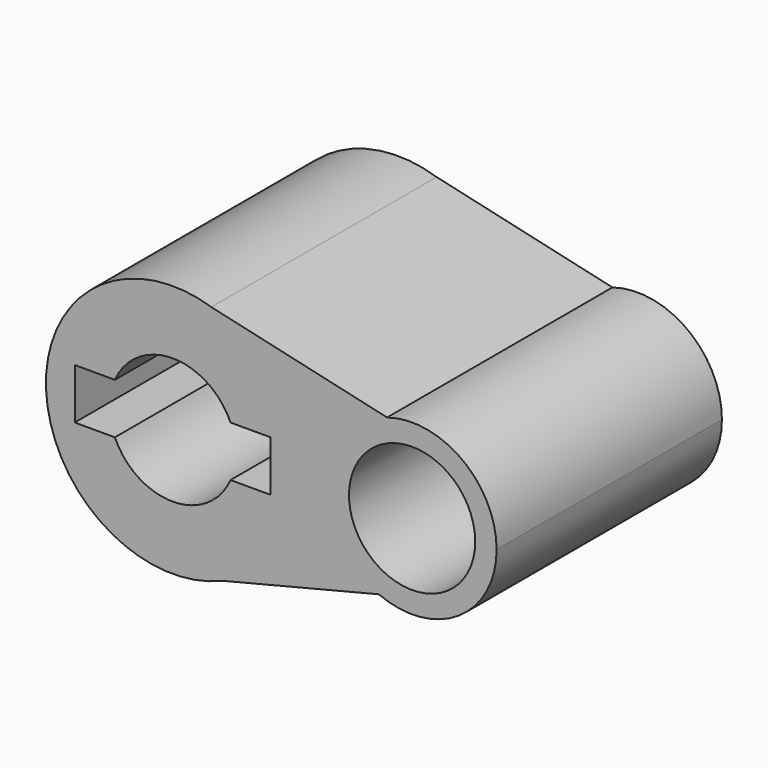
from build123d import *

# Parameters (mm, degrees)
F0_R     = 5.601545
F1_DEPTH = 25


with BuildPart() as f1:
    # F0 (on Front) → F1 (new body)
    with BuildSketch(Plane.XZ):
        with BuildLine():
            ThreePointArc((4.38823, -10.358858), (9.378968, -6.212685), (11.25, 0))
            ThreePointArc((11.25, 0), (9.086368, 6.633281), (3.427704, 10.715099))
            ThreePointArc((3.427704, 10.715099), (-11.238333, -0.51223), (4.38823, -10.358858))
        make_face()
        with BuildLine():
            ThreePointArc((-5.131388, 2.246368), (0, 5.601545), (5.131388, 2.246368))
            Line((5.131388, 2.246368), (8.693097, 2.246368))
            Line((8.693097, 2.246368), (8.693097, -2.246368))
            Line((8.693097, -2.246368), (5.131388, -2.246368))
            ThreePointArc((5.131388, -2.246368), (0, -5.601545), (-5.131388, -2.246368))
            Line((-5.131388, -2.246368), (-8.693097, -2.246368))
            Line((-8.693097, -2.246368), (-8.693097, 2.246368))
            Line((-8.693097, 2.246368), (-5.131388, 2.246368))
        make_face(mode=Mode.SUBTRACT)
        with BuildLine():
            ThreePointArc((3.427704, 10.715099), (9.086368, 6.633281), (11.25, 0))
            ThreePointArc((11.25, 0), (9.378968, -6.212685), (4.38823, -10.358858))
            Line((4.38823, -10.358858), (18.296679, -6.894048))
            ThreePointArc((18.296679, -6.894048), (13.760206, 0.391127), (19.030819, 7.164163))
            Line((19.030819, 7.164163), (3.427704, 10.715099))
        make_face()
        with BuildLine():
            ThreePointArc((28.75, 0), (25.700064, 6.037129), (19.030819, 7.164163))
            ThreePointArc((19.030819, 7.164163), (13.760206, 0.391127), (18.296679, -6.894048))
            ThreePointArc((18.296679, -6.894048), (25.37917, -6.260987), (28.75, 0))
        make_face()
        with Locations((21.25, 0)):
            Circle(F0_R, mode=Mode.SUBTRACT)
    extrude(amount=F1_DEPTH)


solid = f1.part
